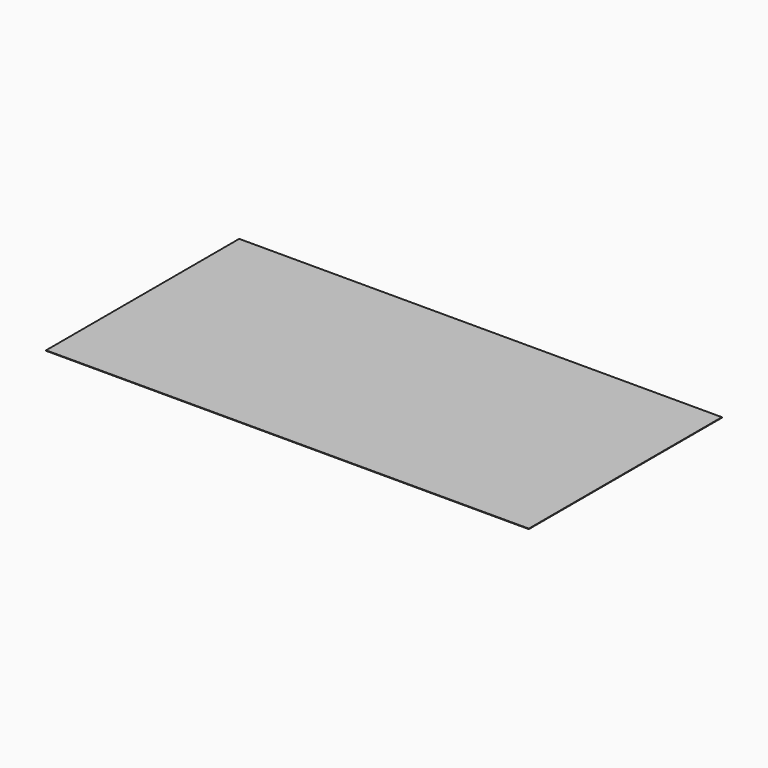
from build123d import *

# Parameters (mm, degrees)
COPYSKETCH001_W = 1000
COPYSKETCH001_H = 500
PAD_DEPTH       = 1


with BuildPart() as part:
    # CopySketch001 → Pad (new body)
    with BuildSketch(Plane(origin=(0, 0, 0), x_dir=(1, 0, 0), z_dir=(0, 0, -1))):
        with Locations((-217.713942, 274.520012)):
            Rectangle(COPYSKETCH001_W, COPYSKETCH001_H)
    extrude(amount=PAD_DEPTH)


solid = part.part
